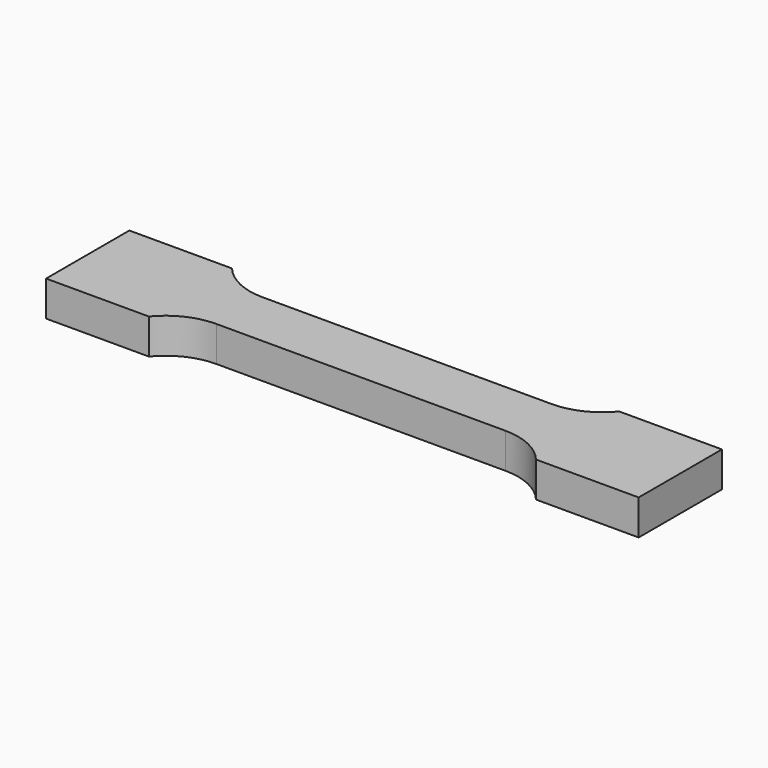
from build123d import *

# Parameters (mm, degrees)
F1_DEPTH = 3.05


with BuildPart() as f1:
    # F0 (on Top) → F1 (new body, symmetric)
    with BuildSketch(Plane.XY):
        with BuildLine():
            ThreePointArc((13.3630401454, 32.8485820591), (9.568174531, 29.8987076881), (4.8777587712, 28.8485820591))
            Line((4.8777587712, 28.8485820591), (-45.1222412288, 28.8485820591))
            ThreePointArc((-45.1222412288, 28.8485820591), (-49.8126569886, 29.8987076881), (-53.6075226031, 32.8485820591))
            Line((-53.6075226031, 32.8485820591), (-71.3722412288, 32.8485820591))
            Line((-71.3722412288, 32.8485820591), (-71.3722412288, 14.8485820591))
            Line((-71.3722412288, 14.8485820591), (-53.6075226031, 14.8485820591))
            ThreePointArc((-53.6075226031, 14.8485820591), (-49.8126569886, 17.7984564302), (-45.1222412288, 18.8485820591))
            Line((-45.1222412288, 18.8485820591), (4.8777587712, 18.8485820591))
            ThreePointArc((4.8777587712, 18.8485820591), (9.568174531, 17.7984564302), (13.3630401454, 14.8485820591))
            Line((13.3630401454, 14.8485820591), (31.1277587712, 14.8485820591))
            Line((31.1277587712, 14.8485820591), (31.1277587712, 32.8485820591))
            Line((31.1277587712, 32.8485820591), (13.3630401454, 32.8485820591))
        make_face()
    extrude(amount=F1_DEPTH, both=True)


solid = f1.part
